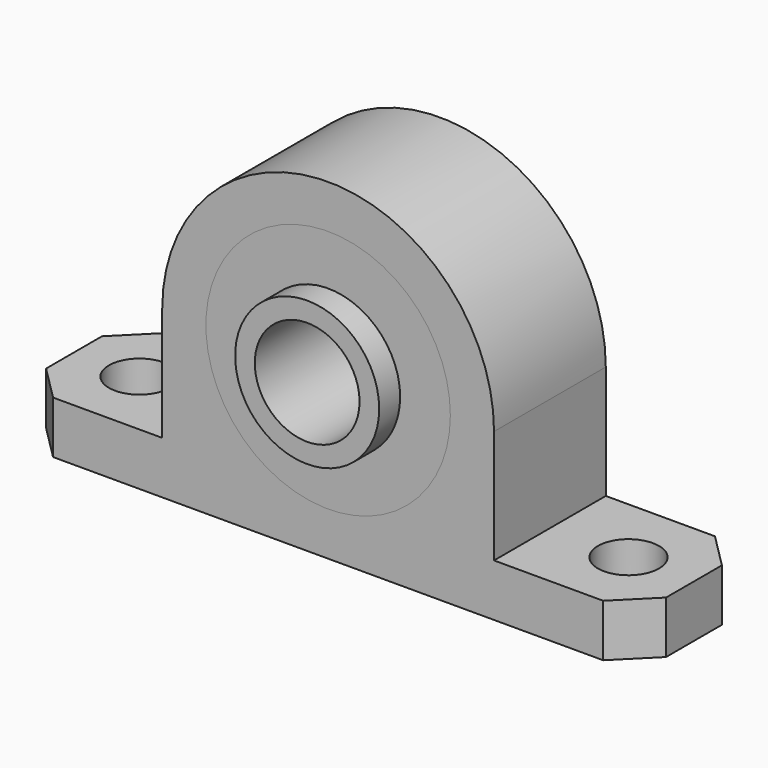
from build123d import *

# Parameters (mm, degrees)
CYLINDER001_R     = 3.5
CYLINDER001_DEPTH = 6
CYLINDER003_R     = 6
CYLINDER003_DEPTH = 22
CYLINDER_R        = 3.5
CYLINDER_DEPTH    = 6
BOX_W             = 38
BOX_H             = 16
BOX_DEPTH         = 19
PAD_DEPTH         = 6
CYLINDER002_R     = 19
CYLINDER002_DEPTH = 16
CYLINDER004_R     = 8.25
CYLINDER004_DEPTH = 22
CYLINDER006_R     = 3.5
CYLINDER006_DEPTH = 6
CYLINDER008_R     = 14
CYLINDER008_DEPTH = 22
CYLINDER005_R     = 3.5
CYLINDER005_DEPTH = 6
BOX001_W          = 38
BOX001_H          = 16
BOX001_DEPTH      = 19
PAD001_DEPTH      = 6
CYLINDER007_R     = 19
CYLINDER007_DEPTH = 16
CYLINDER009_R     = 8.25
CYLINDER009_DEPTH = 22


with BuildPart() as cylinder001:
    # Cylinder001 → Cylinder001 (new body)
    with BuildSketch(Plane(origin=(28, 0, 0), x_dir=(1, 0, 0), z_dir=(0, 0, 1))):
        Circle(CYLINDER001_R)
    extrude(amount=CYLINDER001_DEPTH)


with BuildPart() as cylinder003:
    # Cylinder003 → Cylinder003 (new body)
    with BuildSketch(Plane(origin=(0, 11, 19), x_dir=(1, 0, 0), z_dir=(0, -1, 0))):
        Circle(CYLINDER003_R)
    extrude(amount=CYLINDER003_DEPTH)


with BuildPart() as fusion002:
    # Cylinder → Cylinder (new body)
    with BuildSketch(Plane(origin=(-28, 0, 0), x_dir=(1, 0, 0), z_dir=(0, 0, 1))):
        Circle(CYLINDER_R)
    extrude(amount=CYLINDER_DEPTH)

    # Fusion002: union Cylinder001, Cylinder003
    add(cylinder001.part)
    add(cylinder003.part)


with BuildPart() as cube:
    # Box → Box (new body)
    with BuildSketch(Plane(origin=(-19, -8, 0), x_dir=(1, 0, 0), z_dir=(0, 0, 1))):
        with Locations((19, 8)):
            Rectangle(BOX_W, BOX_H)
    extrude(amount=BOX_DEPTH)


with BuildPart() as body:
    # Sketch → Pad (new body)
    with BuildSketch(Plane.XY):
        Polygon((-31.5, -8), (31.5, -8), (35.5, -4), (35.5, 4), (31.5, 8), (-31.5, 8), (-35.5, 4), (-35.5, -4), align=None)
    extrude(amount=PAD_DEPTH)


with BuildPart() as fusion:
    # Cylinder002 → Cylinder002 (new body)
    with BuildSketch(Plane(origin=(0, 8, 19), x_dir=(1, 0, 0), z_dir=(0, -1, 0))):
        Circle(CYLINDER002_R)
    extrude(amount=CYLINDER002_DEPTH)

    # Fusion: union Cube, Body
    add(cube.part)
    add(body.part)


with BuildPart() as template:
    # Cylinder004 → Cylinder004 (new body)
    with BuildSketch(Plane(origin=(0, 11, 19), x_dir=(1, 0, 0), z_dir=(0, -1, 0))):
        Circle(CYLINDER004_R)
    extrude(amount=CYLINDER004_DEPTH)

    # Fusion001: union Fusion
    add(fusion.part)

    # Cut: cut Fusion002
    add(fusion002.part, mode=Mode.SUBTRACT)


with BuildPart() as cylinder006:
    # Cylinder006 → Cylinder006 (new body)
    with BuildSketch(Plane(origin=(28, 0, 0), x_dir=(1, 0, 0), z_dir=(0, 0, 1))):
        Circle(CYLINDER006_R)
    extrude(amount=CYLINDER006_DEPTH)


with BuildPart() as cylinder008:
    # Cylinder008 → Cylinder008 (new body)
    with BuildSketch(Plane(origin=(0, 11, 19), x_dir=(1, 0, 0), z_dir=(0, -1, 0))):
        Circle(CYLINDER008_R)
    extrude(amount=CYLINDER008_DEPTH)


with BuildPart() as fusion005:
    # Cylinder005 → Cylinder005 (new body)
    with BuildSketch(Plane(origin=(-28, 0, 0), x_dir=(1, 0, 0), z_dir=(0, 0, 1))):
        Circle(CYLINDER005_R)
    extrude(amount=CYLINDER005_DEPTH)

    # Fusion005: union Cylinder006, Cylinder008
    add(cylinder006.part)
    add(cylinder008.part)


with BuildPart() as cube001:
    # Box001 → Box001 (new body)
    with BuildSketch(Plane(origin=(-19, -8, 0), x_dir=(1, 0, 0), z_dir=(0, 0, 1))):
        with Locations((19, 8)):
            Rectangle(BOX001_W, BOX001_H)
    extrude(amount=BOX001_DEPTH)


with BuildPart() as body001:
    # Sketch001 → Pad001 (new body)
    with BuildSketch(Plane.XY):
        Polygon((-31.5, -8), (31.5, -8), (35.5, -4), (35.5, 4), (31.5, 8), (-31.5, 8), (-35.5, 4), (-35.5, -4), align=None)
    extrude(amount=PAD001_DEPTH)


with BuildPart() as fusion003:
    # Cylinder007 → Cylinder007 (new body)
    with BuildSketch(Plane(origin=(0, 8, 19), x_dir=(1, 0, 0), z_dir=(0, -1, 0))):
        Circle(CYLINDER007_R)
    extrude(amount=CYLINDER007_DEPTH)

    # Fusion003: union Cube001, Body001
    add(cube001.part)
    add(body001.part)


with BuildPart() as flangeblock:
    # Cylinder009 → Cylinder009 (new body)
    with BuildSketch(Plane(origin=(0, 11, 19), x_dir=(1, 0, 0), z_dir=(0, -1, 0))):
        Circle(CYLINDER009_R)
    extrude(amount=CYLINDER009_DEPTH)

    # Fusion004: union Fusion003
    add(fusion003.part)

    # Cut001: cut Fusion005
    add(fusion005.part, mode=Mode.SUBTRACT)


solid = Compound([template.part, flangeblock.part])
